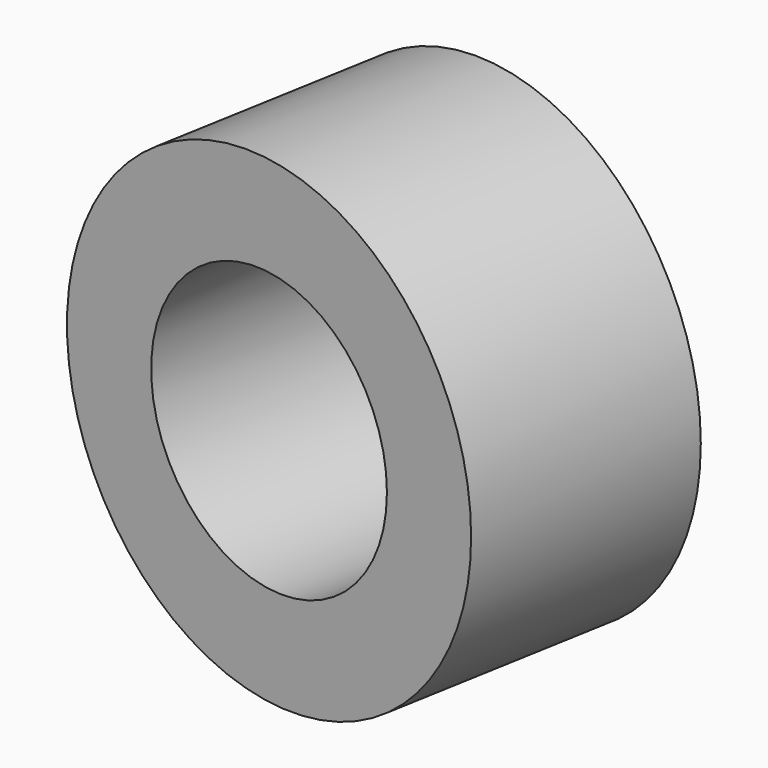
from build123d import *

# Parameters (mm, degrees)
CYLINDER044_R               = 1.75
CYLINDER044_DEPTH           = 18
CYLINDER044_ROLL_ANGLE      = -89.999776
CYLINDER044_PITCH_ANGLE     = 1.4e-05
CYLINDER044_PLACEMENT_ANGLE = -9.999925
CYLINDER045_R               = 3
CYLINDER045_DEPTH           = 3
CYLINDER045_ROLL_ANGLE      = -89.999776
CYLINDER045_PITCH_ANGLE     = 1.4e-05
CYLINDER045_PLACEMENT_ANGLE = -9.999925


with BuildPart() as cylinder044:
    # Cylinder044 → Cylinder044 (new body)
    with BuildSketch(Plane.XY):
        Circle(CYLINDER044_R)
    extrude(amount=CYLINDER044_DEPTH)


with BuildPart() as cylinder044_1:
    # Cylinder044 roll: moved
    add(cylinder044.part.rotate(Axis((0, 0, 0), (1, 0, 0)), CYLINDER044_ROLL_ANGLE))


with BuildPart() as cylinder044_2:
    # Cylinder044 pitch: moved
    add(cylinder044_1.part.rotate(Axis((0, 0, 0), (0, 1, 0)), CYLINDER044_PITCH_ANGLE))


with BuildPart() as cylinder044_3:
    # Cylinder044 placement: moved
    add(cylinder044_2.part.moved(Location((39.936529, -25.15494, 7.500007))).rotate(Axis((39.936529, -25.15494, 7.500007), (0, 0, 1)), CYLINDER044_PLACEMENT_ANGLE))


with BuildPart() as cut037:
    # Cylinder045 → Cylinder045 (new body)
    with BuildSketch(Plane.XY):
        Circle(CYLINDER045_R)
    extrude(amount=CYLINDER045_DEPTH)


with BuildPart() as cut037_1:
    # Cylinder045 roll: moved
    add(cut037.part.rotate(Axis((0, 0, 0), (1, 0, 0)), CYLINDER045_ROLL_ANGLE))


with BuildPart() as cut037_2:
    # Cylinder045 pitch: moved
    add(cut037_1.part.rotate(Axis((0, 0, 0), (0, 1, 0)), CYLINDER045_PITCH_ANGLE))


with BuildPart() as cut037_3:
    # Cylinder045 placement: moved
    add(cut037_2.part.moved(Location((42.020292, -13.337245, 7.500054))).rotate(Axis((42.020292, -13.337245, 7.500054), (0, 0, 1)), CYLINDER045_PLACEMENT_ANGLE))

    # Cut037: cut Cylinder044
    add(cylinder044_3.part, mode=Mode.SUBTRACT)


solid = cut037_3.part
